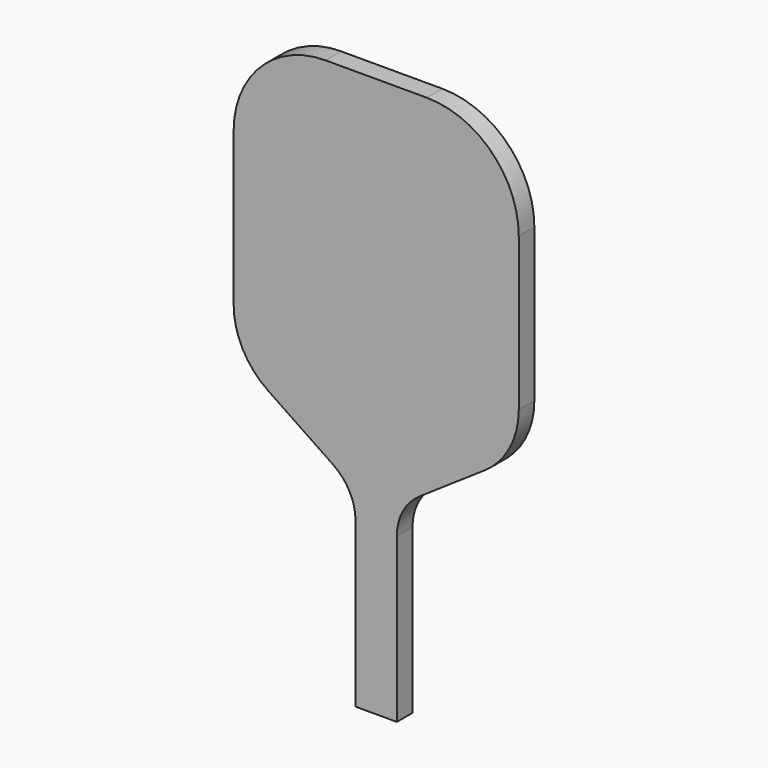
from build123d import *

# Parameters (mm, degrees)
F1_DEPTH = 12.7
F3_DEPTH = 0.381
F5_DEPTH = 0.381


with BuildPart() as f1:
    # F0 (on Front) → F1 (new body)
    with BuildSketch(Plane.XZ):
        with BuildLine():
            Line((-14.2875, 0), (0, 0))
            Line((0, 0), (14.2875, 0))
            Line((14.2875, 0), (14.2875, 113.03))
            ThreePointArc((14.2875, 113.03), (18.36062, 129.398175), (29.629928, 141.94848))
            Line((29.629928, 141.94848), (74.713976, 172.477804))
            ThreePointArc((74.713976, 172.477804), (92.130178, 191.87373), (98.425, 217.17))
            Line((98.425, 217.17), (98.425, 322.58))
            ThreePointArc((98.425, 322.58), (79.826281, 367.481281), (34.925, 386.08))
            Line((34.925, 386.08), (0, 386.08))
            Line((0, 386.08), (-34.925, 386.08))
            ThreePointArc((-34.925, 386.08), (-79.826281, 367.481281), (-98.425, 322.58))
            Line((-98.425, 322.58), (-98.425, 217.17))
            ThreePointArc((-98.425, 217.17), (-92.130178, 191.87373), (-74.713976, 172.477804))
            Line((-74.713976, 172.477804), (-29.629928, 141.94848))
            ThreePointArc((-29.629928, 141.94848), (-18.36062, 129.398175), (-14.2875, 113.03))
            Line((-14.2875, 113.03), (-14.2875, 0))
        make_face()
    extrude(amount=F1_DEPTH)


with BuildPart() as f3:
    # F2 (on face) → F3 (new body)
    with BuildSketch(Plane.XZ.offset(12.7)):
        with BuildLine():
            Line((-14.2875, 0), (14.2875, 0))
            Line((14.2875, 0), (14.2875, 113.03))
            ThreePointArc((14.2875, 113.03), (18.36062, 129.398175), (29.629928, 141.94848))
            Line((29.629928, 141.94848), (74.713976, 172.477804))
            ThreePointArc((74.713976, 172.477804), (92.130178, 191.87373), (98.425, 217.17))
            Line((98.425, 217.17), (98.425, 322.58))
            ThreePointArc((98.425, 322.58), (79.826281, 367.481281), (34.925, 386.08))
            Line((34.925, 386.08), (-34.925, 386.08))
            ThreePointArc((-34.925, 386.08), (-79.826281, 367.481281), (-98.425, 322.58))
            Line((-98.425, 322.58), (-98.425, 217.17))
            ThreePointArc((-98.425, 217.17), (-92.130178, 191.87373), (-74.713976, 172.477804))
            Line((-74.713976, 172.477804), (-29.629928, 141.94848))
            ThreePointArc((-29.629928, 141.94848), (-18.36062, 129.398175), (-14.2875, 113.03))
            Line((-14.2875, 113.03), (-14.2875, 0))
        make_face()
    extrude(amount=F3_DEPTH)


with BuildPart() as f5:
    # F4 (on face) → F5 (new body)
    with BuildSketch(Plane(origin=(0, 0, 0), x_dir=(-1, 0, 0), z_dir=(0, 1, 0))):
        with BuildLine():
            Line((-14.2875, 113.03), (-14.2875, 0))
            Line((-14.2875, 0), (14.2875, 0))
            Line((14.2875, 0), (14.2875, 113.03))
            ThreePointArc((14.2875, 113.03), (18.36062, 129.398175), (29.629928, 141.94848))
            Line((29.629928, 141.94848), (74.713976, 172.477804))
            ThreePointArc((74.713976, 172.477804), (92.130178, 191.87373), (98.425, 217.17))
            Line((98.425, 217.17), (98.425, 322.58))
            ThreePointArc((98.425, 322.58), (79.826281, 367.481281), (34.925, 386.08))
            Line((34.925, 386.08), (-34.925, 386.08))
            ThreePointArc((-34.925, 386.08), (-79.826281, 367.481281), (-98.425, 322.58))
            Line((-98.425, 322.58), (-98.425, 217.17))
            ThreePointArc((-98.425, 217.17), (-92.130178, 191.87373), (-74.713976, 172.477804))
            Line((-74.713976, 172.477804), (-29.629928, 141.94848))
            ThreePointArc((-29.629928, 141.94848), (-18.36062, 129.398175), (-14.2875, 113.03))
        make_face()
    extrude(amount=F5_DEPTH)


solid = Compound([f1.part, f3.part, f5.part])
